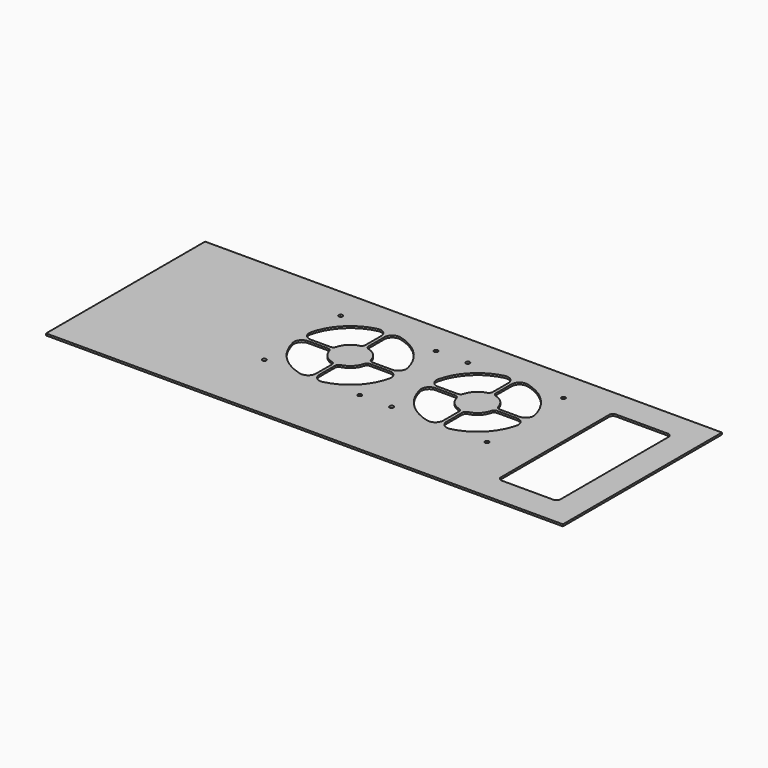
from build123d import *

# Parameters (mm, degrees)
F0_W     = 650
F0_H     = 250
F0_R     = 2.5
F0_W_2   = 75
F0_H_2   = 180
F0_W_3   = 2
F0_H_3   = 2
F1_DEPTH = 2.4
F2_R     = 5
F3_R     = 10
F4_R     = 5


with BuildPart() as f1:
    # F0 (on Top) → F1 (new body)
    with BuildSketch(Plane.XY):
        Rectangle(F0_W, F0_H)
        with Locations((-122.5, -35)):
            Circle(F0_R, mode=Mode.SUBTRACT)
        with Locations((-2.5, -35)):
            Circle(F0_R, mode=Mode.SUBTRACT)
        with Locations((37.5, -35)):
            Circle(F0_R, mode=Mode.SUBTRACT)
        with Locations((157.5, -35)):
            Circle(F0_R, mode=Mode.SUBTRACT)
        with Locations((-122.5, 85)):
            Circle(F0_R, mode=Mode.SUBTRACT)
        with Locations((-2.5, 85)):
            Circle(F0_R, mode=Mode.SUBTRACT)
        with BuildLine():
            ThreePointArc((-60.5, 87.4679918038), (-18.3058261758, 69.1941738242), (-0.0320081962, 27))
            Line((-0.0320081962, 27), (35.0320081962, 27))
            ThreePointArc((35.0320081962, 27), (53.3058261758, 69.1941738242), (95.5, 87.4679918038))
            ThreePointArc((95.5, 87.4679918038), (96.4998719426, 87.4919974386), (97.5, 87.5))
            ThreePointArc((97.5, 87.5), (98.5001280574, 87.4919974386), (99.5, 87.4679918038))
            ThreePointArc((99.5, 87.4679918038), (141.6941738242, 69.1941738242), (159.9679918038, 27))
            ThreePointArc((159.9679918038, 27), (159.9919974386, 26.0001280574), (160, 25))
            ThreePointArc((160, 25), (159.9919974386, 23.9998719426), (159.9679918038, 23))
            ThreePointArc((159.9679918038, 23), (141.6941738242, -19.1941738242), (99.5, -37.4679918038))
            ThreePointArc((99.5, -37.4679918038), (97.5, -37.5), (95.5, -37.4679918038))
            ThreePointArc((95.5, -37.4679918038), (53.3058261758, -19.1941738242), (35.0320081962, 23))
            Line((35.0320081962, 23), (-0.0320081962, 23))
            ThreePointArc((-0.0320081962, 23), (-18.3058261758, -19.1941738242), (-60.5, -37.4679918038))
            ThreePointArc((-60.5, -37.4679918038), (-61.4998719426, -37.4919974386), (-62.5, -37.5))
            ThreePointArc((-62.5, -37.5), (-63.5001280574, -37.4919974386), (-64.5, -37.4679918038))
            ThreePointArc((-64.5, -37.4679918038), (-106.6941738242, -19.1941738242), (-124.9679918038, 23))
            ThreePointArc((-124.9679918038, 23), (-124.9919974386, 23.9998719426), (-125, 25))
            ThreePointArc((-125, 25), (-124.9919974386, 26.0001280574), (-124.9679918038, 27))
            ThreePointArc((-124.9679918038, 27), (-106.6941738242, 69.1941738242), (-64.5, 87.4679918038))
            ThreePointArc((-64.5, 87.4679918038), (-63.5001280574, 87.4919974386), (-62.5, 87.5))
            ThreePointArc((-62.5, 87.5), (-61.4998719426, 87.4919974386), (-60.5, 87.4679918038))
        make_face(mode=Mode.SUBTRACT)
        with Locations((252.5, 0)):
            Rectangle(F0_W_2, F0_H_2, mode=Mode.SUBTRACT)
        with Locations((37.5, 85)):
            Circle(F0_R, mode=Mode.SUBTRACT)
        with Locations((157.5, 85)):
            Circle(F0_R, mode=Mode.SUBTRACT)
        with BuildLine():
            Line((-64.5, 27), (-64.5, 47.410934831))
            ThreePointArc((-64.5, 47.410934831), (-78.4099025767, 40.9099025767), (-84.910934831, 27))
            Line((-84.910934831, 27), (-64.5, 27))
        make_face()
        with BuildLine():
            Line((-60.5, 27), (-40.089065169, 27))
            ThreePointArc((-40.089065169, 27), (-46.5900974233, 40.9099025767), (-60.5, 47.410934831))
            Line((-60.5, 47.410934831), (-60.5, 27))
        make_face()
        with BuildLine():
            Line((-60.5, 27), (-60.5, 47.410934831))
            ThreePointArc((-60.5, 47.410934831), (-61.4990089156, 47.4777226793), (-62.5, 47.5))
            Line((-62.5, 47.5), (-62.5, 27))
            Line((-62.5, 27), (-60.5, 27))
        make_face()
        with BuildLine():
            Line((-62.5, 27), (-62.5, 47.5))
            ThreePointArc((-62.5, 47.5), (-63.5009910844, 47.4777226793), (-64.5, 47.410934831))
            Line((-64.5, 47.410934831), (-64.5, 27))
            Line((-64.5, 27), (-62.5, 27))
        make_face()
        with BuildLine():
            Line((-40, 25), (0, 25))
            ThreePointArc((0, 25), (-0.0080025614, 26.0001280574), (-0.0320081962, 27))
            Line((-0.0320081962, 27), (-40.089065169, 27))
            ThreePointArc((-40.089065169, 27), (-40.0222773207, 26.0009910844), (-40, 25))
        make_face()
        with BuildLine():
            ThreePointArc((-0.0320081962, 23), (-0.0080025614, 23.9998719426), (0, 25))
            Line((0, 25), (-40, 25))
            ThreePointArc((-40, 25), (-40.0222773207, 23.9990089156), (-40.089065169, 23))
            Line((-40.089065169, 23), (-0.0320081962, 23))
        make_face()
        with BuildLine():
            Line((-60.5, 25), (-40, 25))
            ThreePointArc((-40, 25), (-40.0222773207, 26.0009910844), (-40.089065169, 27))
            Line((-40.089065169, 27), (-60.5, 27))
            Line((-60.5, 27), (-60.5, 25))
        make_face()
        with BuildLine():
            ThreePointArc((-40.089065169, 23), (-40.0222773207, 23.9990089156), (-40, 25))
            Line((-40, 25), (-60.5, 25))
            Line((-60.5, 25), (-60.5, 23))
            Line((-60.5, 23), (-40.089065169, 23))
        make_face()
        with BuildLine():
            ThreePointArc((-60.5, 2.589065169), (-46.5900974233, 9.0900974233), (-40.089065169, 23))
            Line((-40.089065169, 23), (-60.5, 23))
            Line((-60.5, 23), (-60.5, 2.589065169))
        make_face()
        with BuildLine():
            ThreePointArc((-62.5, 2.5), (-61.4990089156, 2.5222773207), (-60.5, 2.589065169))
            Line((-60.5, 2.589065169), (-60.5, 23))
            Line((-60.5, 23), (-62.5, 23))
            Line((-62.5, 23), (-62.5, 2.5))
        make_face()
        with BuildLine():
            ThreePointArc((-64.5, 2.589065169), (-63.5009910844, 2.5222773207), (-62.5, 2.5))
            Line((-62.5, 2.5), (-62.5, 23))
            Line((-62.5, 23), (-64.5, 23))
            Line((-64.5, 23), (-64.5, 2.589065169))
        make_face()
        with Locations((-63.5, 26)):
            Rectangle(F0_W_3, F0_H_3)
        with Locations((-61.5, 26)):
            Rectangle(F0_W_3, F0_H_3)
        with Locations((-61.5, 24)):
            Rectangle(F0_W_3, F0_H_3)
        with Locations((-63.5, 24)):
            Rectangle(F0_W_3, F0_H_3)
        with BuildLine():
            Line((-64.5, 23), (-64.5, 25))
            Line((-64.5, 25), (-85, 25))
            ThreePointArc((-85, 25), (-84.9777226793, 23.9990089156), (-84.910934831, 23))
            Line((-84.910934831, 23), (-64.5, 23))
        make_face()
        with BuildLine():
            Line((-85, 25), (-64.5, 25))
            Line((-64.5, 25), (-64.5, 27))
            Line((-64.5, 27), (-84.910934831, 27))
            ThreePointArc((-84.910934831, 27), (-84.9777226793, 26.0009910844), (-85, 25))
        make_face()
        with BuildLine():
            ThreePointArc((-84.910934831, 23), (-78.4099025767, 9.0900974233), (-64.5, 2.589065169))
            Line((-64.5, 2.589065169), (-64.5, 23))
            Line((-64.5, 23), (-84.910934831, 23))
        make_face()
        with BuildLine():
            ThreePointArc((-125, 25), (-124.9919974386, 23.9998719426), (-124.9679918038, 23))
            Line((-124.9679918038, 23), (-84.910934831, 23))
            ThreePointArc((-84.910934831, 23), (-84.9777226793, 23.9990089156), (-85, 25))
            Line((-85, 25), (-125, 25))
        make_face()
        with BuildLine():
            Line((-84.910934831, 27), (-124.9679918038, 27))
            ThreePointArc((-124.9679918038, 27), (-124.9919974386, 26.0001280574), (-125, 25))
            Line((-125, 25), (-85, 25))
            ThreePointArc((-85, 25), (-84.9777226793, 26.0009910844), (-84.910934831, 27))
        make_face()
        with BuildLine():
            Line((-62.5, 47.5), (-62.5, 87.5))
            ThreePointArc((-62.5, 87.5), (-63.5001280574, 87.4919974386), (-64.5, 87.4679918038))
            Line((-64.5, 87.4679918038), (-64.5, 47.410934831))
            ThreePointArc((-64.5, 47.410934831), (-63.5009910844, 47.4777226793), (-62.5, 47.5))
        make_face()
        with BuildLine():
            Line((-60.5, 47.410934831), (-60.5, 87.4679918038))
            ThreePointArc((-60.5, 87.4679918038), (-61.4998719426, 87.4919974386), (-62.5, 87.5))
            Line((-62.5, 87.5), (-62.5, 47.5))
            ThreePointArc((-62.5, 47.5), (-61.4990089156, 47.4777226793), (-60.5, 47.410934831))
        make_face()
        with BuildLine():
            ThreePointArc((-64.5, -37.4679918038), (-63.5001280574, -37.4919974386), (-62.5, -37.5))
            Line((-62.5, -37.5), (-62.5, 2.5))
            ThreePointArc((-62.5, 2.5), (-63.5009910844, 2.5222773207), (-64.5, 2.589065169))
            Line((-64.5, 2.589065169), (-64.5, -37.4679918038))
        make_face()
        with BuildLine():
            ThreePointArc((-62.5, -37.5), (-61.4998719426, -37.4919974386), (-60.5, -37.4679918038))
            Line((-60.5, -37.4679918038), (-60.5, 2.589065169))
            ThreePointArc((-60.5, 2.589065169), (-61.4990089156, 2.5222773207), (-62.5, 2.5))
            Line((-62.5, 2.5), (-62.5, -37.5))
        make_face()
        with BuildLine():
            ThreePointArc((-0.0320081962, 27), (-0.0080025614, 26.0001280574), (0, 25))
            Line((0, 25), (35, 25))
            ThreePointArc((35, 25), (35.0080025614, 26.0001280574), (35.0320081962, 27))
            Line((35.0320081962, 27), (-0.0320081962, 27))
        make_face()
        with BuildLine():
            Line((35, 25), (0, 25))
            ThreePointArc((0, 25), (-0.0080025614, 23.9998719426), (-0.0320081962, 23))
            Line((-0.0320081962, 23), (35.0320081962, 23))
            ThreePointArc((35.0320081962, 23), (35.0080025614, 23.9998719426), (35, 25))
        make_face()
        with BuildLine():
            Line((75, 25), (35, 25))
            ThreePointArc((35, 25), (35.0080025614, 23.9998719426), (35.0320081962, 23))
            Line((35.0320081962, 23), (75.089065169, 23))
            ThreePointArc((75.089065169, 23), (75.0222773207, 23.9990089156), (75, 25))
        make_face()
        with BuildLine():
            ThreePointArc((35.0320081962, 27), (35.0080025614, 26.0001280574), (35, 25))
            Line((35, 25), (75, 25))
            ThreePointArc((75, 25), (75.0222773207, 26.0009910844), (75.089065169, 27))
            Line((75.089065169, 27), (35.0320081962, 27))
        make_face()
        with BuildLine():
            ThreePointArc((119.910934831, 27), (113.4099025767, 40.9099025767), (99.5, 47.410934831))
            Line((99.5, 47.410934831), (99.5, 27))
            Line((99.5, 27), (119.910934831, 27))
        make_face()
        with BuildLine():
            Line((99.5, 27), (99.5, 25))
            Line((99.5, 25), (120, 25))
            ThreePointArc((120, 25), (119.9777226793, 26.0009910844), (119.910934831, 27))
            Line((119.910934831, 27), (99.5, 27))
        make_face()
        with BuildLine():
            Line((120, 25), (99.5, 25))
            Line((99.5, 25), (99.5, 23))
            Line((99.5, 23), (119.910934831, 23))
            ThreePointArc((119.910934831, 23), (119.9777226793, 23.9990089156), (120, 25))
        make_face()
        with BuildLine():
            Line((99.5, 23), (99.5, 2.589065169))
            ThreePointArc((99.5, 2.589065169), (113.4099025767, 9.0900974233), (119.910934831, 23))
            Line((119.910934831, 23), (99.5, 23))
        make_face()
        with BuildLine():
            Line((95.5, 23), (95.5, 2.589065169))
            ThreePointArc((95.5, 2.589065169), (97.5, 2.5), (99.5, 2.589065169))
            Line((99.5, 2.589065169), (99.5, 23))
            Line((99.5, 23), (97.5, 23))
            Line((97.5, 23), (95.5, 23))
        make_face()
        Polygon((97.5, 25), (95.5, 25), (95.5, 23), (97.5, 23), (99.5, 23), (99.5, 25), align=None)
        with Locations((98.5, 26)):
            Rectangle(F0_W_3, F0_H_3)
        with Locations((96.5, 26)):
            Rectangle(F0_W_3, F0_H_3)
        with BuildLine():
            ThreePointArc((97.5, 47.5), (96.4990089156, 47.4777226793), (95.5, 47.410934831))
            Line((95.5, 47.410934831), (95.5, 27))
            Line((95.5, 27), (97.5, 27))
            Line((97.5, 27), (97.5, 47.5))
        make_face()
        with BuildLine():
            ThreePointArc((99.5, 47.410934831), (98.5009910844, 47.4777226793), (97.5, 47.5))
            Line((97.5, 47.5), (97.5, 27))
            Line((97.5, 27), (99.5, 27))
            Line((99.5, 27), (99.5, 47.410934831))
        make_face()
        with BuildLine():
            ThreePointArc((95.5, 47.410934831), (81.5900974233, 40.9099025767), (75.089065169, 27))
            Line((75.089065169, 27), (95.5, 27))
            Line((95.5, 27), (95.5, 47.410934831))
        make_face()
        with BuildLine():
            ThreePointArc((75.089065169, 27), (75.0222773207, 26.0009910844), (75, 25))
            Line((75, 25), (95.5, 25))
            Line((95.5, 25), (95.5, 27))
            Line((95.5, 27), (75.089065169, 27))
        make_face()
        with BuildLine():
            Line((95.5, 25), (75, 25))
            ThreePointArc((75, 25), (75.0222773207, 23.9990089156), (75.089065169, 23))
            Line((75.089065169, 23), (95.5, 23))
            Line((95.5, 23), (95.5, 25))
        make_face()
        with BuildLine():
            Line((95.5, 23), (75.089065169, 23))
            ThreePointArc((75.089065169, 23), (81.5900974233, 9.0900974233), (95.5, 2.589065169))
            Line((95.5, 2.589065169), (95.5, 23))
        make_face()
        with BuildLine():
            Line((95.5, 2.589065169), (95.5, -37.4679918038))
            ThreePointArc((95.5, -37.4679918038), (97.5, -37.5), (99.5, -37.4679918038))
            Line((99.5, -37.4679918038), (99.5, 2.589065169))
            ThreePointArc((99.5, 2.589065169), (97.5, 2.5), (95.5, 2.589065169))
        make_face()
        with BuildLine():
            Line((119.910934831, 23), (159.9679918038, 23))
            ThreePointArc((159.9679918038, 23), (159.9919974386, 23.9998719426), (160, 25))
            Line((160, 25), (120, 25))
            ThreePointArc((120, 25), (119.9777226793, 23.9990089156), (119.910934831, 23))
        make_face()
        with BuildLine():
            ThreePointArc((160, 25), (159.9919974386, 26.0001280574), (159.9679918038, 27))
            Line((159.9679918038, 27), (119.910934831, 27))
            ThreePointArc((119.910934831, 27), (119.9777226793, 26.0009910844), (120, 25))
            Line((120, 25), (160, 25))
        make_face()
        with BuildLine():
            ThreePointArc((99.5, 87.4679918038), (98.5001280574, 87.4919974386), (97.5, 87.5))
            Line((97.5, 87.5), (97.5, 47.5))
            ThreePointArc((97.5, 47.5), (98.5009910844, 47.4777226793), (99.5, 47.410934831))
            Line((99.5, 47.410934831), (99.5, 87.4679918038))
        make_face()
        with BuildLine():
            ThreePointArc((97.5, 87.5), (96.4998719426, 87.4919974386), (95.5, 87.4679918038))
            Line((95.5, 87.4679918038), (95.5, 47.410934831))
            ThreePointArc((95.5, 47.410934831), (96.4990089156, 47.4777226793), (97.5, 47.5))
            Line((97.5, 47.5), (97.5, 87.5))
        make_face()
    extrude(amount=F1_DEPTH)

    # F2
    f2_edges = [f1.edges().sort_by_distance(p)[0] for p in [
        (-40.089065, 27, 1.2),
        (-60.5, 47.410935, 1.2),
        (-64.5, 47.410935, 1.2),
        (-84.910935, 27, 1.2),
        (-84.910935, 23, 1.2),
        (-64.5, 2.589065, 1.2),
        (-60.5, 2.589065, 1.2),
        (-40.089065, 23, 1.2),
        (119.910935, 23, 1.2),
        (99.5, 2.589065, 1.2),
        (119.910935, 27, 1.2),
        (99.5, 47.410935, 1.2),
        (95.5, 47.410935, 1.2),
        (75.089065, 27, 1.2),
        (75.089065, 23, 1.2),
        (95.5, 2.589065, 1.2),
    ]]
    fillet(f2_edges, radius=F2_R)

    # F3
    f3_edges = [f1.edges().sort_by_distance(p)[0] for p in [
        (-64.5, -37.467992, 1.2),
        (-60.5, -37.467992, 1.2),
        (-0.032008, 23, 1.2),
        (-0.032008, 27, 1.2),
        (95.5, -37.467992, 1.2),
        (99.5, -37.467992, 1.2),
        (35.032008, 27, 1.2),
        (35.032008, 23, 1.2),
        (99.5, 87.467992, 1.2),
        (-60.5, 87.467992, 1.2),
        (-124.967992, 23, 1.2),
        (-124.967992, 27, 1.2),
        (-64.5, 87.467992, 1.2),
        (159.967992, 27, 1.2),
        (159.967992, 23, 1.2),
        (95.5, 87.467992, 1.2),
    ]]
    fillet(f3_edges, radius=F3_R)

    # F4
    f4_edges = [f1.edges().sort_by_distance(p)[0] for p in [
        (215, 90, 1.2),
        (290, 90, 1.2),
        (215, -90, 1.2),
        (290, -90, 1.2),
    ]]
    fillet(f4_edges, radius=F4_R)


solid = f1.part
